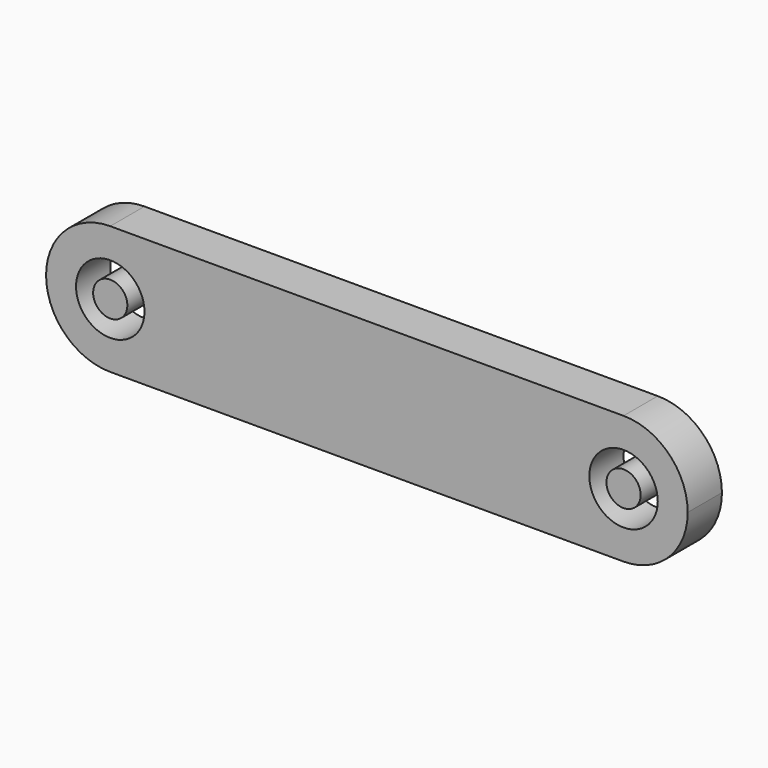
from build123d import *

# Parameters (mm, degrees)
F0_R     = 4
F0_R_2   = 2
F1_DEPTH = 5


with BuildPart() as f1:
    # F0 (on Front) → F1 (new body)
    with BuildSketch(Plane.XZ):
        with BuildLine():
            ThreePointArc((0, -7.5), (5.303301, -5.303301), (7.5, 0))
            ThreePointArc((7.5, 0), (5.303301, 5.303301), (0, 7.5))
            ThreePointArc((0, 7.5), (-7.5, 0), (0, -7.5))
        make_face()
        Circle(F0_R, mode=Mode.SUBTRACT)
        with BuildLine():
            ThreePointArc((0, 7.5), (5.303301, 5.303301), (7.5, 0))
            ThreePointArc((7.5, 0), (5.303301, -5.303301), (0, -7.5))
            Line((0, -7.5), (60, -7.5))
            ThreePointArc((60, -7.5), (52.5, 0), (60, 7.5))
            Line((60, 7.5), (0, 7.5))
        make_face()
        with BuildLine():
            ThreePointArc((67.5, 0), (65.303301, 5.303301), (60, 7.5))
            ThreePointArc((60, 7.5), (52.5, 0), (60, -7.5))
            ThreePointArc((60, -7.5), (65.303301, -5.303301), (67.5, 0))
        make_face()
        with Locations((60, 0)):
            Circle(F0_R, mode=Mode.SUBTRACT)
        with Locations((60, 0)):
            Circle(F0_R_2)
        Circle(F0_R_2)
    extrude(amount=F1_DEPTH)


solid = f1.part
